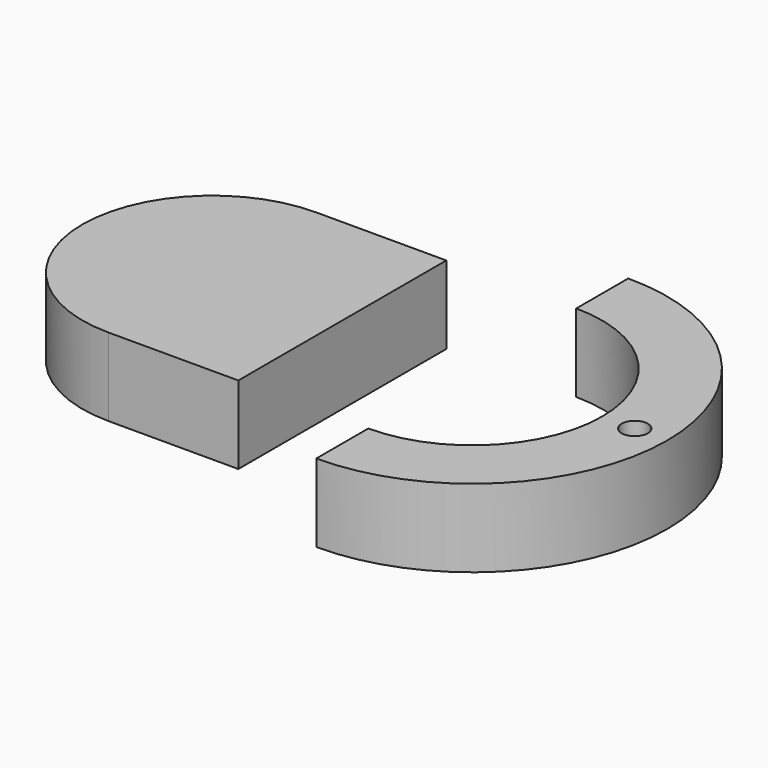
from build123d import *

# Parameters (mm, degrees)
F1_DEPTH = 7.62


with BuildPart() as f1:
    # F0 (on Top) → F1 (new body)
    with BuildSketch(Plane.XY):
        with BuildLine():
            Line((0, -12.7), (0, 0))
            Line((0, 0), (0, 12.7))
            Line((0, 12.7), (-12.7, 12.7))
            ThreePointArc((-12.7, 12.7), (-21.680256, 8.980256), (-25.4, 0))
            ThreePointArc((-25.4, 0), (-21.680256, -8.980256), (-12.7, -12.7))
            Line((-12.7, -12.7), (0, -12.7))
        make_face()
        with BuildLine():
            Line((12.7, 19.05), (12.7, 12.7))
            ThreePointArc((12.7, 12.7), (21.680256, 8.980256), (25.4, 0))
            ThreePointArc((25.4, 0), (21.680256, -8.980256), (12.7, -12.7))
            Line((12.7, -12.7), (12.7, -19.05))
            ThreePointArc((12.7, -19.05), (31.75, 0), (12.7, 19.05))
        make_face()
        with BuildLine():
            ThreePointArc((29.847618, 0), (28.575, -1.272618), (27.302382, 0))
            ThreePointArc((27.302382, 0), (28.575, 1.272618), (29.847618, 0))
        make_face(mode=Mode.SUBTRACT)
    extrude(amount=F1_DEPTH)


solid = f1.part
